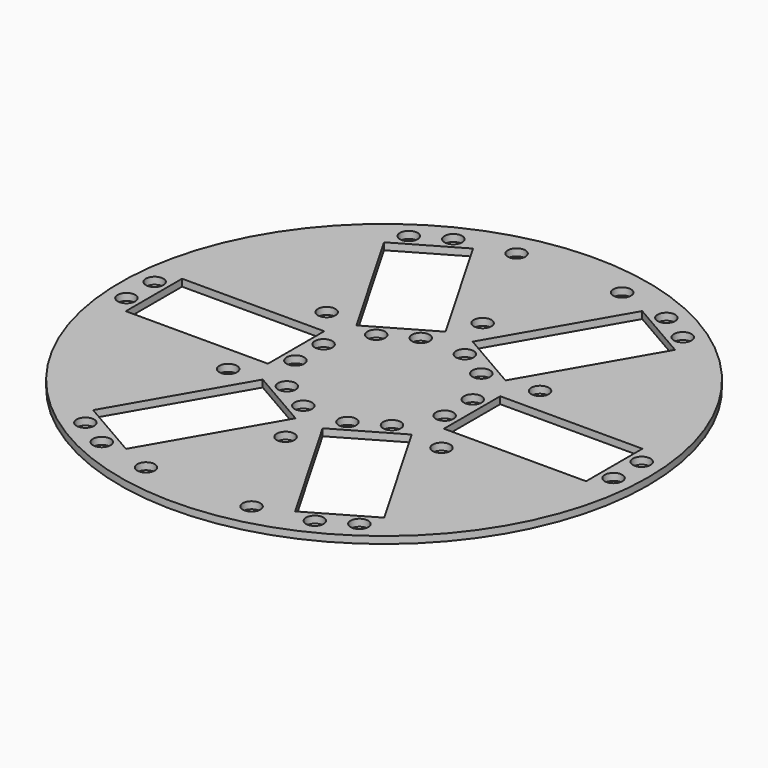
from build123d import *

# Parameters (mm, degrees)
F0_R     = 75
F0_R_2   = 2.5
F0_W     = 40.4
F0_H     = 20
F1_DEPTH = 2


with BuildPart() as f1:
    # F0 (on Top) → F1 (new body)
    with BuildSketch(Plane.XY):
        Circle(F0_R)
        with Locations((-38.930127, -57.428958)):
            Circle(F0_R_2, mode=Mode.SUBTRACT)
        with Locations((-30.269873, -62.428958)):
            Circle(F0_R_2, mode=Mode.SUBTRACT)
        with Locations((-15, -65.812233)):
            Circle(F0_R_2, mode=Mode.SUBTRACT)
        Polygon((-41.360254, -51.638061), (-21.160254, -16.650635), (-3.839746, -26.650635), (-24.039746, -61.638061), align=None, mode=Mode.SUBTRACT)
        with Locations((-69.2, -5)):
            Circle(F0_R_2, mode=Mode.SUBTRACT)
        with Locations((-6.269873, -20.859739)):
            Circle(F0_R_2, mode=Mode.SUBTRACT)
        with Locations((-30.310889, -17.5)):
            Circle(F0_R_2, mode=Mode.SUBTRACT)
        with Locations((-21.2, -5)):
            Circle(F0_R_2, mode=Mode.SUBTRACT)
        with Locations((-14.930127, -15.859739)):
            Circle(F0_R_2, mode=Mode.SUBTRACT)
        with Locations((15, -65.812233)):
            Circle(F0_R_2, mode=Mode.SUBTRACT)
        with Locations((30.269873, -62.428958)):
            Circle(F0_R_2, mode=Mode.SUBTRACT)
        Polygon((24.039746, -61.638061), (3.839746, -26.650635), (21.160254, -16.650635), (41.360254, -51.638061), align=None, mode=Mode.SUBTRACT)
        with Locations((38.930127, -57.428958)):
            Circle(F0_R_2, mode=Mode.SUBTRACT)
        with Locations((0, -35)):
            Circle(F0_R_2, mode=Mode.SUBTRACT)
        with Locations((6.269873, -20.859739)):
            Circle(F0_R_2, mode=Mode.SUBTRACT)
        with Locations((14.930127, -15.859739)):
            Circle(F0_R_2, mode=Mode.SUBTRACT)
        with Locations((30.310889, -17.5)):
            Circle(F0_R_2, mode=Mode.SUBTRACT)
        with Locations((21.2, -5)):
            Circle(F0_R_2, mode=Mode.SUBTRACT)
        with Locations((69.2, -5)):
            Circle(F0_R_2, mode=Mode.SUBTRACT)
        with Locations((-69.2, 5)):
            Circle(F0_R_2, mode=Mode.SUBTRACT)
        with Locations((-45.2, 0)):
            Rectangle(F0_W, F0_H, mode=Mode.SUBTRACT)
        with Locations((-21.2, 5)):
            Circle(F0_R_2, mode=Mode.SUBTRACT)
        with Locations((-30.310889, 17.5)):
            Circle(F0_R_2, mode=Mode.SUBTRACT)
        with Locations((-14.930127, 15.859739)):
            Circle(F0_R_2, mode=Mode.SUBTRACT)
        with Locations((-6.269873, 20.859739)):
            Circle(F0_R_2, mode=Mode.SUBTRACT)
        with Locations((-38.930127, 57.428958)):
            Circle(F0_R_2, mode=Mode.SUBTRACT)
        Polygon((-24.039746, 61.638061), (-3.839746, 26.650635), (-21.160254, 16.650635), (-41.360254, 51.638061), align=None, mode=Mode.SUBTRACT)
        with Locations((-30.269873, 62.428958)):
            Circle(F0_R_2, mode=Mode.SUBTRACT)
        with Locations((-15, 65.812233)):
            Circle(F0_R_2, mode=Mode.SUBTRACT)
        with Locations((14.930127, 15.859739)):
            Circle(F0_R_2, mode=Mode.SUBTRACT)
        with Locations((21.2, 5)):
            Circle(F0_R_2, mode=Mode.SUBTRACT)
        with Locations((30.310889, 17.5)):
            Circle(F0_R_2, mode=Mode.SUBTRACT)
        with Locations((6.269873, 20.859739)):
            Circle(F0_R_2, mode=Mode.SUBTRACT)
        with Locations((0, 35)):
            Circle(F0_R_2, mode=Mode.SUBTRACT)
        with Locations((45.2, 0)):
            Rectangle(F0_W, F0_H, mode=Mode.SUBTRACT)
        with Locations((69.2, 5)):
            Circle(F0_R_2, mode=Mode.SUBTRACT)
        Polygon((41.360254, 51.638061), (21.160254, 16.650635), (3.839746, 26.650635), (24.039746, 61.638061), align=None, mode=Mode.SUBTRACT)
        with Locations((15, 65.812233)):
            Circle(F0_R_2, mode=Mode.SUBTRACT)
        with Locations((30.269873, 62.428958)):
            Circle(F0_R_2, mode=Mode.SUBTRACT)
        with Locations((38.930127, 57.428958)):
            Circle(F0_R_2, mode=Mode.SUBTRACT)
    extrude(amount=F1_DEPTH)


solid = f1.part
